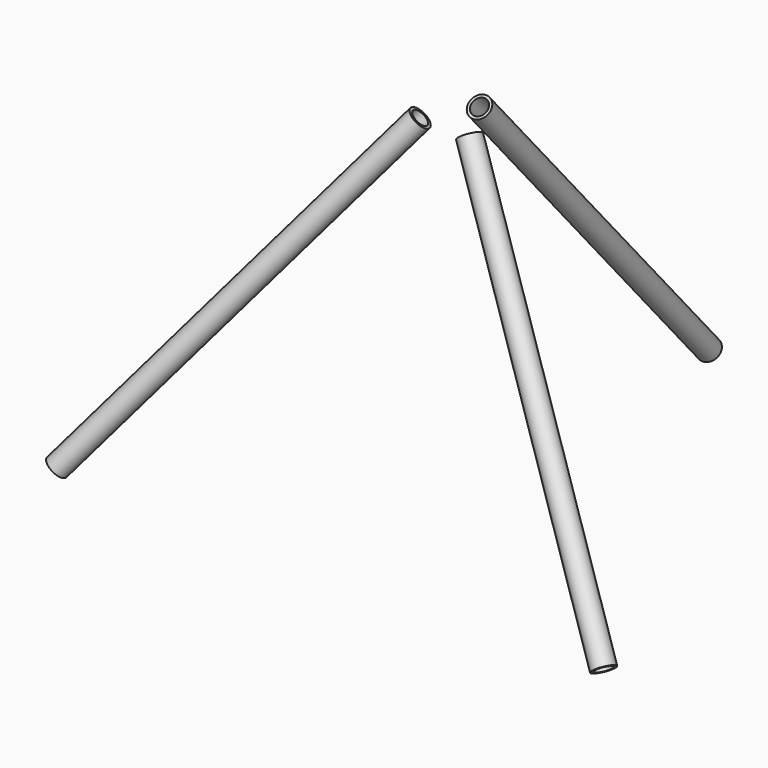
from build123d import *

# Parameters (mm, degrees)
CYLINDER005_R          = 7.5
CYLINDER005_DEPTH      = 400
CYLINDER004_R          = 10
CYLINDER004_DEPTH      = 400
CUT002_ROLL_ANGLE      = -23.451681
CUT002_PITCH_ANGLE     = -34.647535
CUT002_PLACEMENT_ANGLE = 7.408586
CYLINDER007_R          = 7.5
CYLINDER007_DEPTH      = 400
CYLINDER006_R          = 10
CYLINDER006_DEPTH      = 400
CUT003_PLACEMENT_ANGLE = 41
CYLINDER002_R          = 7.5
CYLINDER002_DEPTH      = 400
CYLINDER003_R          = 10
CYLINDER003_DEPTH      = 400
CUT001_ROLL_ANGLE      = -23.451681
CUT001_PITCH_ANGLE     = 34.647535
CUT001_PLACEMENT_ANGLE = -7.408586


with BuildPart() as cylinder005:
    # Cylinder005 → Cylinder005 (new body)
    with BuildSketch(Plane.XY):
        Circle(CYLINDER005_R)
    extrude(amount=CYLINDER005_DEPTH)


with BuildPart() as obj1:
    # Cylinder004 → Cylinder004 (new body)
    with BuildSketch(Plane.XY):
        Circle(CYLINDER004_R)
    extrude(amount=CYLINDER004_DEPTH)

    # Cut002: cut Cylinder005
    add(cylinder005.part, mode=Mode.SUBTRACT)


with BuildPart() as obj1_1:
    # Cut002 roll: moved
    add(obj1.part.rotate(Axis((0, 0, 0), (1, 0, 0)), CUT002_ROLL_ANGLE))


with BuildPart() as obj1_2:
    # Cut002 pitch: moved
    add(obj1_1.part.rotate(Axis((0, 0, 0), (0, 1, 0)), CUT002_PITCH_ANGLE))


with BuildPart() as obj1_3:
    # Cut002 placement: moved
    add(obj1_2.part.moved(Location((250, -144.34, 0))).rotate(Axis((250, -144.34, 0), (0, 0, 1)), CUT002_PLACEMENT_ANGLE))


with BuildPart() as cylinder007:
    # Cylinder007 → Cylinder007 (new body)
    with BuildSketch(Plane.XY):
        Circle(CYLINDER007_R)
    extrude(amount=CYLINDER007_DEPTH)


with BuildPart() as obj2:
    # Cylinder006 → Cylinder006 (new body)
    with BuildSketch(Plane.XY):
        Circle(CYLINDER006_R)
    extrude(amount=CYLINDER006_DEPTH)

    # Cut003: cut Cylinder007
    add(cylinder007.part, mode=Mode.SUBTRACT)


with BuildPart() as obj2_1:
    # Cut003 placement: moved
    add(obj2.part.moved(Location((0, 288.68, 0))).rotate(Axis((0, 288.68, 0), (1, 0, 0)), CUT003_PLACEMENT_ANGLE))


with BuildPart() as cylinder002:
    # Cylinder002 → Cylinder002 (new body)
    with BuildSketch(Plane.XY):
        Circle(CYLINDER002_R)
    extrude(amount=CYLINDER002_DEPTH)


with BuildPart() as tripod:
    # Cylinder003 → Cylinder003 (new body)
    with BuildSketch(Plane.XY):
        Circle(CYLINDER003_R)
    extrude(amount=CYLINDER003_DEPTH)

    # Cut001: cut Cylinder002
    add(cylinder002.part, mode=Mode.SUBTRACT)


with BuildPart() as tripod_1:
    # Cut001 roll: moved
    add(tripod.part.rotate(Axis((0, 0, 0), (1, 0, 0)), CUT001_ROLL_ANGLE))


with BuildPart() as tripod_2:
    # Cut001 pitch: moved
    add(tripod_1.part.rotate(Axis((0, 0, 0), (0, 1, 0)), CUT001_PITCH_ANGLE))


with BuildPart() as tripod_3:
    # Cut001 placement: moved
    add(tripod_2.part.moved(Location((-250, -144.34, 0))).rotate(Axis((-250, -144.34, 0), (0, 0, 1)), CUT001_PLACEMENT_ANGLE))

    # Fusion: union obj1, obj2
    add(obj1_3.part)
    add(obj2_1.part)


solid = tripod_3.part
